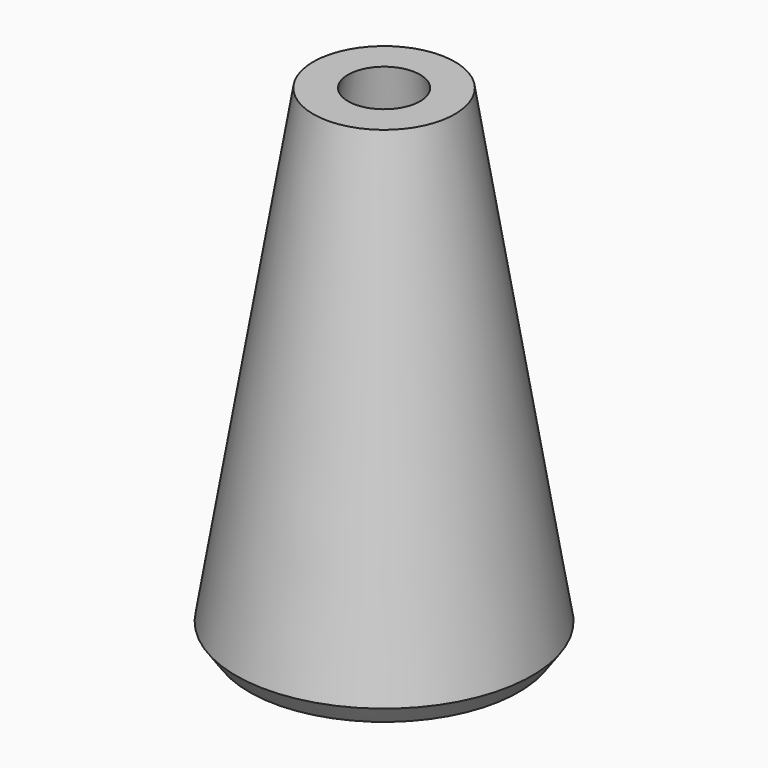
from build123d import *


with BuildPart() as f2:
    # F0 (on Front) → F2 (revolve)
    with BuildSketch(Plane.XZ):
        Polygon((-5.8, 0), (-5, 0), (-3.8, 7.304348), (-1.55, 21), (-3.05, 21), (-6.368571, 0.8), align=None)
        Polygon((-3.8, 7.304348), (-5, 0), (-3.8, 0), align=None)
    revolve(axis=Axis((0, 0, 10.568428), (0, 0, 1)))


solid = f2.part
